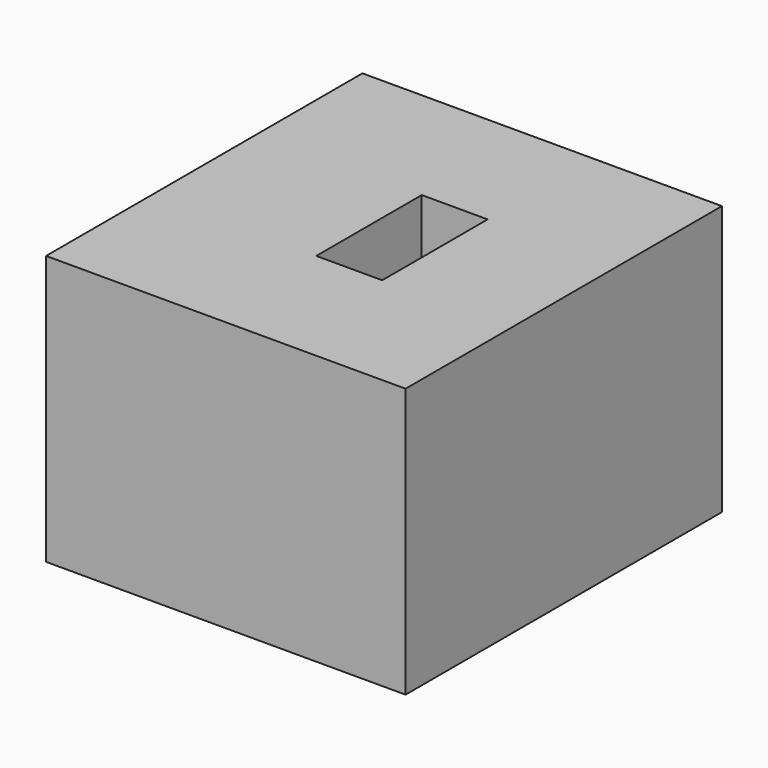
from build123d import *

# Parameters (mm, degrees)
F0_W     = 25.423289
F0_H     = 27.965621
F0_W_2   = 4.660934
F0_H_2   = 9.321874
F1_DEPTH = 6.35
F2_DEPTH = 19.05


with BuildPart() as f1:
    # F0 (on Top) → F1 (new body)
    with BuildSketch(Plane.XY):
        with Locations((-37.71121, 19.279323)):
            Rectangle(F0_W, F0_H)
        with Locations((-36.440052, 19.279326)):
            Rectangle(F0_W_2, F0_H_2, mode=Mode.SUBTRACT)
    extrude(amount=F1_DEPTH)

    # F0 (on Top) → F2 (join)
    with BuildSketch(Plane.XY):
        with Locations((-37.71121, 19.279323)):
            Rectangle(F0_W, F0_H)
        with Locations((-36.440052, 19.279326)):
            Rectangle(F0_W_2, F0_H_2, mode=Mode.SUBTRACT)
    extrude(amount=F2_DEPTH)


solid = f1.part
